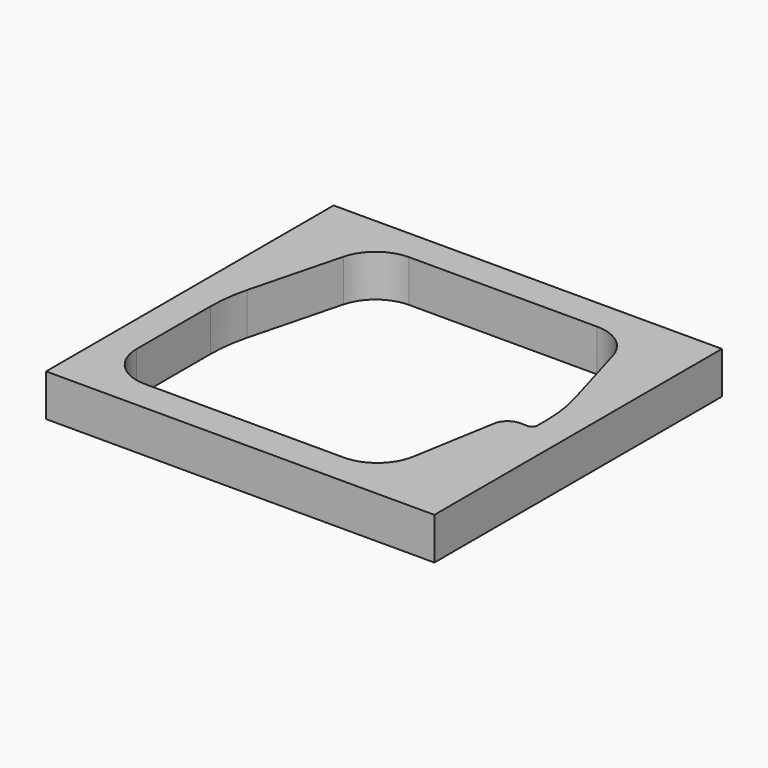
from build123d import *

# Parameters (mm, degrees)
SKETCH_W         = 36.95
SKETCH_H         = 34.2
SKETCH_W_2       = 30.95
SKETCH_H_2       = 28.2
PAD_DEPTH        = 4
CHAMFER_SIZE2    = 3.5
CHAMFER_SIZE     = 13.5
FILLET_R         = 4
CHAMFER001_SIZE2 = 12
CHAMFER001_SIZE  = 3.5
PAD001_DEPTH     = 4
FILLET001_R      = 1.5
FILLET002_R      = 4
FILLET003_R      = 15
FILLET004_R      = 0.5


with BuildPart() as part:
    # Sketch → Pad (new body)
    with BuildSketch(Plane.XY):
        Rectangle(SKETCH_W, SKETCH_H)
        Rectangle(SKETCH_W_2, SKETCH_H_2, mode=Mode.SUBTRACT)
    extrude(amount=PAD_DEPTH)

    # Chamfer
    chamfer_edges = [part.edges().sort_by_distance(p)[0] for p in [
        (-15.475, 14.1, 2),
    ]]
    chamfer_side = part.faces().sort_by_distance((-15.475, 0, 2))[0]
    chamfer(chamfer_edges, length=CHAMFER_SIZE, length2=CHAMFER_SIZE2, reference=chamfer_side)

    # Fillet
    fillet_edges = [part.edges().sort_by_distance(p)[0] for p in [
        (-15.475, -14.1, 2),
    ]]
    fillet(fillet_edges, radius=FILLET_R)

    # Chamfer001
    chamfer001_edges = [part.edges().sort_by_distance(p)[0] for p in [
        (15.475, 14.1, 2),
    ]]
    chamfer001_side = part.faces().sort_by_distance((1.75, 14.1, 2))[0]
    chamfer(chamfer001_edges, length=CHAMFER001_SIZE, length2=CHAMFER001_SIZE2, reference=chamfer001_side)

    # Sketch001 (on Face13 of Chamfer001) → Pad001 (join)
    with BuildSketch(Plane.XY.offset(4)):
        Polygon((10.825, -14.1), (15.475, -14.1), (15.475, -1.6), (12.975, -1.6), align=None)
    extrude(amount=-PAD001_DEPTH)

    # Fillet001
    fillet001_edges = [part.edges().sort_by_distance(p)[0] for p in [
        (12.975, -1.6, 2),
    ]]
    fillet(fillet001_edges, radius=FILLET001_R)

    # Fillet002
    fillet002_edges = [part.edges().sort_by_distance(p)[0] for p in [
        (-11.975, 14.1, 2),
        (11.975, 14.1, 2),
        (10.825, -14.1, 2),
    ]]
    fillet(fillet002_edges, radius=FILLET002_R)

    # Fillet003
    fillet003_edges = [part.edges().sort_by_distance(p)[0] for p in [
        (-15.475, 0.6, 2),
        (15.475, 2.1, 2),
    ]]
    fillet(fillet003_edges, radius=FILLET003_R)

    # Fillet004
    fillet004_edges = [part.edges().sort_by_distance(p)[0] for p in [
        (15.475, -1.6, 2),
    ]]
    fillet(fillet004_edges, radius=FILLET004_R)


with BuildPart() as part_1:
    # Body placement: moved
    add(part.part.moved(Location((0, 0, -10))))


solid = part_1.part
